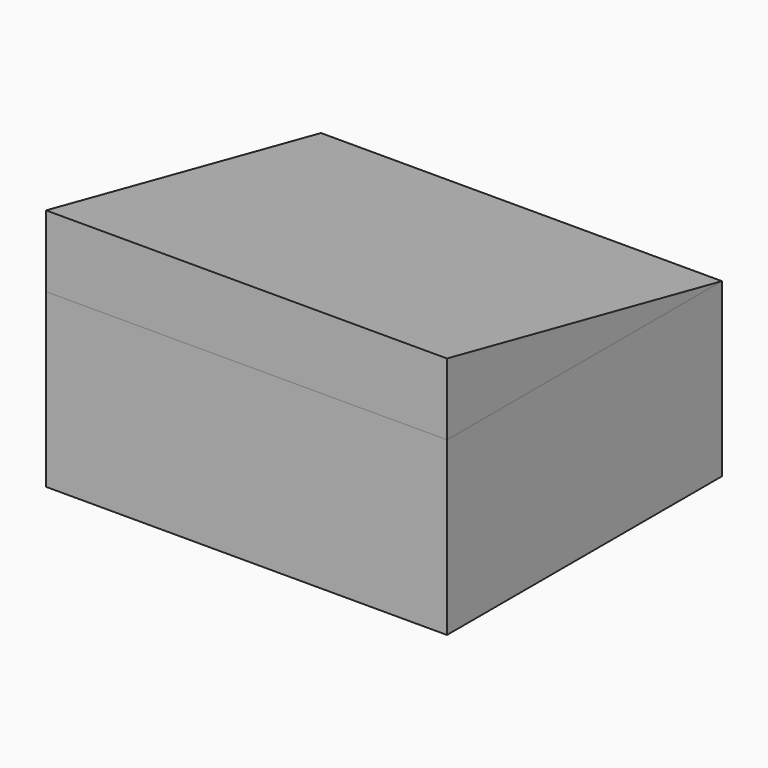
from build123d import *

# Parameters (mm, degrees)
F0_W     = 711.2
F0_H     = 609.6
F1_DEPTH = 304.8
F3_DEPTH = 711.2


with BuildPart() as f1:
    # F0 (on Top) → F1 (new body)
    with BuildSketch(Plane.XY):
        Rectangle(F0_W, F0_H)
    extrude(amount=F1_DEPTH)


with BuildPart() as f3:
    # F2 (on face) → F3 (new body)
    with BuildSketch(Plane(origin=(-355.6, 0, 0), x_dir=(0, -1, 0), z_dir=(-1, 0, 0))):
        Polygon((304.8, 431.8), (-304.8, 304.8), (304.8, 304.8), align=None)
    extrude(amount=-F3_DEPTH)


solid = Compound([f1.part, f3.part])
